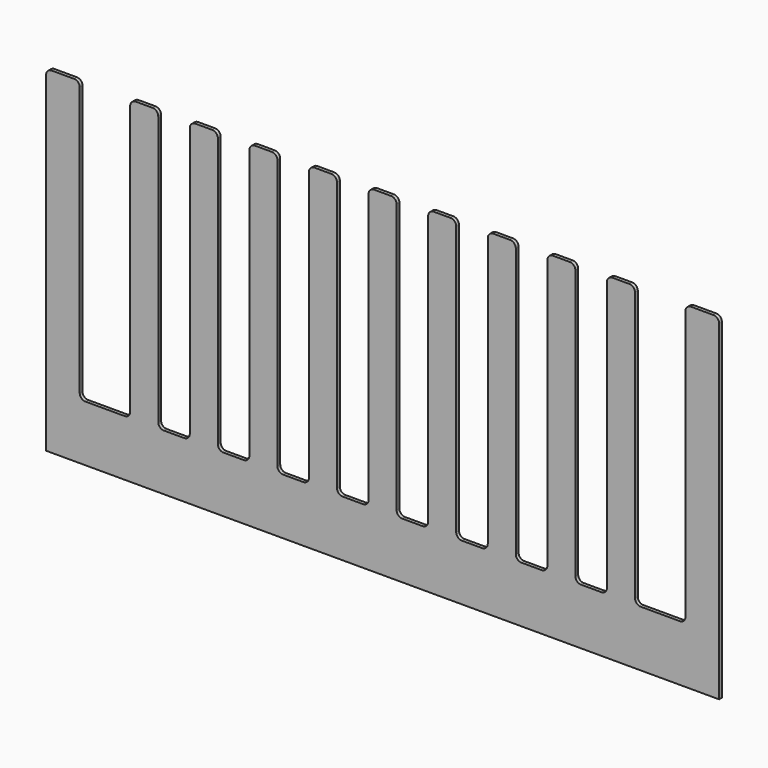
from build123d import *

# Parameters (mm, degrees)
F0_W     = 609.6
F0_H     = 304.8
F1_DEPTH = 3.175
F2_W     = 45.72
F2_H     = 3.175
F2_W_2   = 28.575
F3_DEPTH = 254
F4_R     = 5.08
F5_R     = 5.08


with BuildPart() as f1:
    # F0 (on Front) → F1 (new body)
    with BuildSketch(Plane.XZ):
        Rectangle(F0_W, F0_H)
    extrude(amount=F1_DEPTH)

    # F2 (on face) → F3 (cut)
    with BuildSketch(Plane.XY.offset(152.4)):
        with Locations((-251.46, -1.5875)):
            Rectangle(F2_W, F2_H)
        with Locations((-188.9125, -1.5875)):
            Rectangle(F2_W_2, F2_H)
        with Locations((-134.9375, -1.5875)):
            Rectangle(F2_W_2, F2_H)
        with Locations((-80.9625, -1.5875)):
            Rectangle(F2_W_2, F2_H)
        with Locations((-26.9875, -1.5875)):
            Rectangle(F2_W_2, F2_H)
        with Locations((26.9875, -1.5875)):
            Rectangle(F2_W_2, F2_H)
        with Locations((80.9625, -1.5875)):
            Rectangle(F2_W_2, F2_H)
        with Locations((134.9375, -1.5875)):
            Rectangle(F2_W_2, F2_H)
        with Locations((188.9125, -1.5875)):
            Rectangle(F2_W_2, F2_H)
        with Locations((251.46, -1.5875)):
            Rectangle(F2_W, F2_H)
    extrude(amount=-F3_DEPTH, mode=Mode.SUBTRACT)

    # F4
    f4_edges = [f1.edges().sort_by_distance(p)[0] for p in [
        (-274.32, -1.5875, 152.4),
        (-228.6, -1.5875, 152.4),
        (-228.6, -1.5875, -101.6),
        (-274.32, -1.5875, -101.6),
        (-304.8, -1.5875, 152.4),
        (304.8, -1.5875, 152.4),
        (-203.2, -1.5875, 152.4),
        (-174.625, -1.5875, 152.4),
        (-149.225, -1.5875, 152.4),
        (-120.65, -1.5875, 152.4),
        (-95.25, -1.5875, 152.4),
        (-66.675, -1.5875, 152.4),
        (-41.275, -1.5875, 152.4),
        (-12.7, -1.5875, 152.4),
        (12.7, -1.5875, 152.4),
        (66.675, -1.5875, 152.4),
        (95.25, -1.5875, 152.4),
        (149.225, -1.5875, 152.4),
        (41.275, -1.5875, 152.4),
        (120.65, -1.5875, 152.4),
        (174.625, -1.5875, 152.4),
        (228.6, -1.5875, 152.4),
        (274.32, -1.5875, 152.4),
        (203.2, -1.5875, 152.4),
    ]]
    fillet(f4_edges, radius=F4_R)

    # F5
    f5_edges = [f1.edges().sort_by_distance(p)[0] for p in [
        (-174.625, -1.5875, -101.6),
        (-120.65, -1.5875, -101.6),
        (-66.675, -1.5875, -101.6),
        (-12.7, -1.5875, -101.6),
        (41.275, -1.5875, -101.6),
        (95.25, -1.5875, -101.6),
        (149.225, -1.5875, -101.6),
        (203.2, -1.5875, -101.6),
        (274.32, -1.5875, -101.6),
        (228.6, -1.5875, -101.6),
        (174.625, -1.5875, -101.6),
        (120.65, -1.5875, -101.6),
        (66.675, -1.5875, -101.6),
        (12.7, -1.5875, -101.6),
        (-41.275, -1.5875, -101.6),
        (-95.25, -1.5875, -101.6),
        (-149.225, -1.5875, -101.6),
        (-203.2, -1.5875, -101.6),
    ]]
    fillet(f5_edges, radius=F5_R)


solid = f1.part
